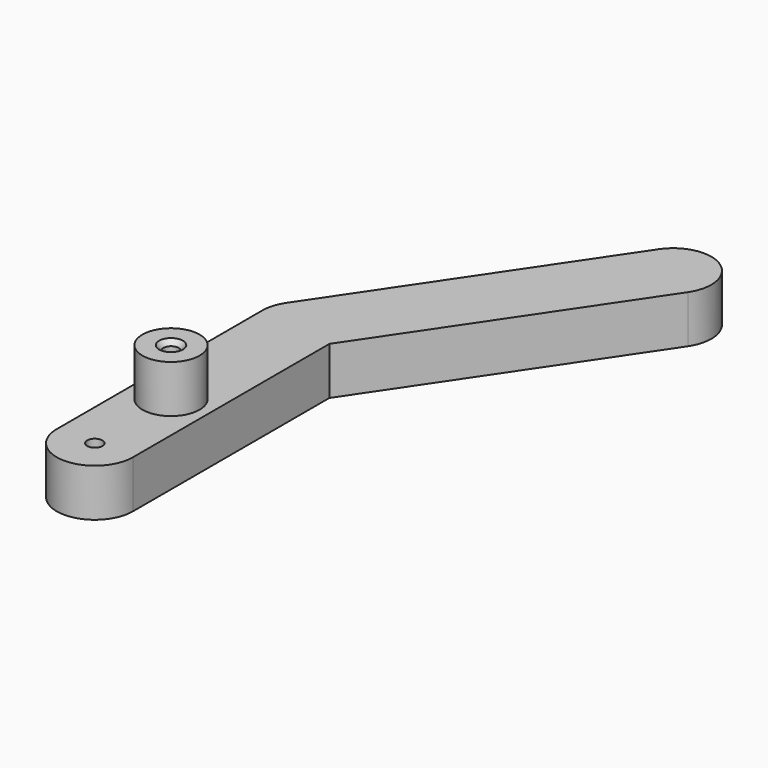
from build123d import *

# Parameters (mm, degrees)
F1_DEPTH       = 6.35
F2_R           = 3.81
F3_DEPTH       = 12.7
F5_D           = 2.032
F5_CSINK_D     = 3.175
F5_CSINK_ANGLE = 82
F6_D           = 2.032
F6_CSINK_D     = 3.175
F6_CSINK_ANGLE = 82


with BuildPart() as f1:
    # F0 (on Top) → F1 (new body)
    with BuildSketch(Plane.XY):
        with BuildLine():
            ThreePointArc((-5.08, 12.7), (-3.5921024484, 9.1078975516), (0, 7.62))
            Line((0, 7.62), (0, 12.7))
            Line((0, 12.7), (0, 17.78))
            ThreePointArc((0, 17.78), (-3.5921024484, 16.2921024484), (-5.08, 12.7))
        make_face()
        with BuildLine():
            Line((0, 12.7), (0, 7.62))
            ThreePointArc((0, 7.62), (3.5921024484, 9.1078975516), (5.08, 12.7))
            ThreePointArc((5.08, 12.7), (3.5921024484, 16.2921024484), (0, 17.78))
            Line((0, 17.78), (0, 12.7))
        make_face()
        with BuildLine():
            ThreePointArc((5.08, 12.7), (3.5921024484, 9.1078975516), (0, 7.62))
            ThreePointArc((0, 7.62), (-3.5921024484, 9.1078975516), (-5.08, 12.7))
            Line((-5.08, 12.7), (-5.08, 0))
            ThreePointArc((-5.08, 0), (0, -5.08), (5.08, 0))
            Line((5.08, 0), (5.08, 12.7))
        make_face()
        with BuildLine():
            ThreePointArc((0, 17.78), (3.5921024484, 16.2921024484), (5.08, 12.7))
            Line((5.08, 12.7), (5.08, 32.7368881382))
            Line((5.08, 32.7368881382), (4.2115108686, 31.4493000504))
            ThreePointArc((4.2115108686, 31.4493000504), (2.384915539, 29.8046262283), (0, 29.21))
            Line((0, 29.21), (0, 17.78))
        make_face()
        with BuildLine():
            Line((-5.08, 34.29), (-5.08, 12.7))
            ThreePointArc((-5.08, 12.7), (-3.5921024484, 16.2921024484), (0, 17.78))
            Line((0, 17.78), (0, 29.21))
            ThreePointArc((0, 29.21), (-3.5921024484, 30.6978975516), (-5.08, 34.29))
        make_face()
        with BuildLine():
            Line((5.08, 34.29), (5.08, 32.7368881382))
            Line((5.08, 32.7368881382), (26.9371104656, 65.141386999))
            ThreePointArc((26.9371104656, 65.141386999), (25.5662995467, 72.1935978172), (18.5140887285, 70.8227868983))
            Line((18.5140887285, 70.8227868983), (-4.2115108686, 37.1306999496))
            ThreePointArc((-4.2115108686, 37.1306999496), (-0.9693096965, 39.2766660919), (2.8406999496, 38.5015108686))
            ThreePointArc((2.8406999496, 38.5015108686), (4.4853737717, 36.674915539), (5.08, 34.29))
        make_face()
        with BuildLine():
            Line((4.2115108686, 31.4493000504), (5.08, 32.7368881382))
            Line((5.08, 32.7368881382), (5.08, 34.29))
            ThreePointArc((5.08, 34.29), (4.4853737717, 36.674915539), (2.8406999496, 38.5015108686))
            Line((2.8406999496, 38.5015108686), (0, 34.29))
            Line((0, 34.29), (0, 29.21))
            ThreePointArc((0, 29.21), (2.384915539, 29.8046262283), (4.2115108686, 31.4493000504))
        make_face()
        with BuildLine():
            ThreePointArc((-4.2115108686, 37.1306999496), (-4.8580281603, 35.77524826), (-5.08, 34.29))
            ThreePointArc((-5.08, 34.29), (-3.5921024484, 30.6978975516), (0, 29.21))
            Line((0, 29.21), (0, 34.29))
            Line((0, 34.29), (2.8406999496, 38.5015108686))
            ThreePointArc((2.8406999496, 38.5015108686), (-0.9693096965, 39.2766660919), (-4.2115108686, 37.1306999496))
        make_face()
    extrude(amount=F1_DEPTH)

    # F2 (on Top) → F3 (join)
    with BuildSketch(Plane.XY):
        with Locations((0, 12.7)):
            Circle(F2_R)
    extrude(amount=F3_DEPTH)

    # F5 (through all)
    with Locations(Plane.XY.offset(12.7)):
        with Locations((0, 12.7)):
            CounterSinkHole(F5_D / 2, F5_CSINK_D / 2, counter_sink_angle=F5_CSINK_ANGLE)

    # F6 (through all)
    with Locations(Plane(origin=(0, 0, 0), x_dir=(1, 0, 0), z_dir=(0, 0, -1))):
        with Locations((0, 0)):
            CounterSinkHole(F6_D / 2, F6_CSINK_D / 2, counter_sink_angle=F6_CSINK_ANGLE)


solid = f1.part
